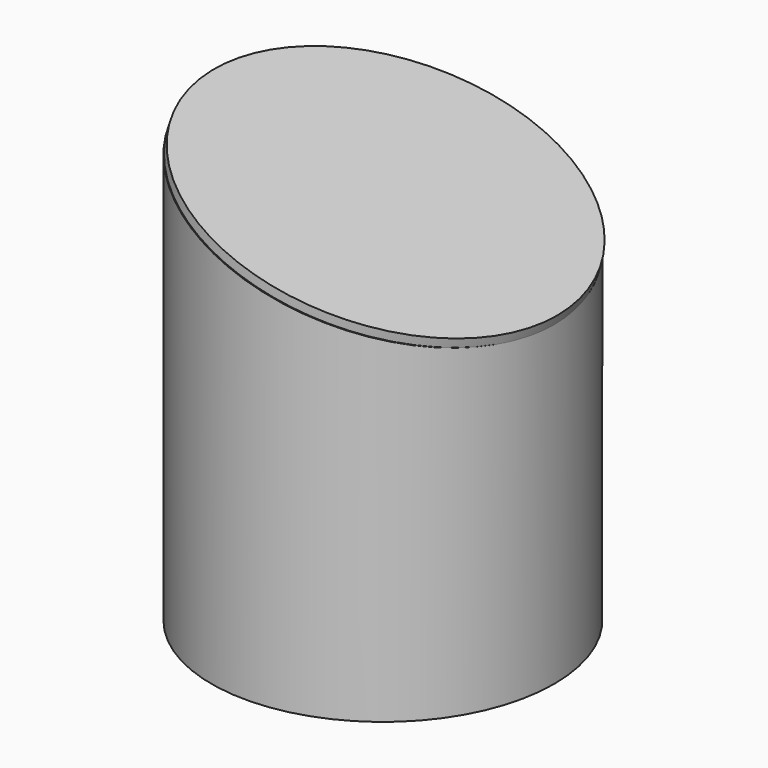
from build123d import *

# Parameters (mm, degrees)
F0_R     = 55
F1_DEPTH = 145
F2_R     = 50
F3_DEPTH = 145
F6_DEPTH = 155.001
F8_DEPTH = 3


with BuildPart() as f1:
    # F0 (on Top) → F1 (new body)
    with BuildSketch(Plane.XY):
        Circle(F0_R)
    extrude(amount=F1_DEPTH)

    # F2 (on face) → F3 (cut)
    with BuildSketch(Plane.XY.offset(145)):
        Circle(F2_R)
    extrude(amount=-F3_DEPTH, mode=Mode.SUBTRACT)

    # F5 (on offset) → F6 (cut, through all)
    with BuildSketch(Plane.XZ.offset(100)):
        Polygon((82.8120857477, 161.7481857538), (-101.9518598914, 149.8574316502), (91.0441428423, 90.4036834836), align=None)
    extrude(amount=-F6_DEPTH, mode=Mode.SUBTRACT)

    # F7 (on face) → F8 (join)
    with BuildSketch(Plane(origin=(33.3267984426, 0, 108.1839090332), x_dir=(0.9556810205, 0, -0.2944041219), z_dir=(0.2944041219, 0, 0.9556810205))):
        with BuildLine():
            add(Edge.make_bspline(
                [(22.7009318769, 0), (22.7009318769, 94.710096546), (-63.6589209463, 47.355048273), (-150.0187737696, 0), (-63.6589209463, -47.355048273), (22.7009318769, -94.710096546), (22.7009318769, 0)],
                knots=[0, 0, 0, 2.0943951024, 2.0943951024, 4.1887902048, 4.1887902048, 6.2831853072, 6.2831853072, 6.2831853072], degree=2, weights=[1, 0.5, 1, 0.5, 1, 0.5, 1]))
        make_face()
    extrude(amount=F8_DEPTH)


solid = f1.part
